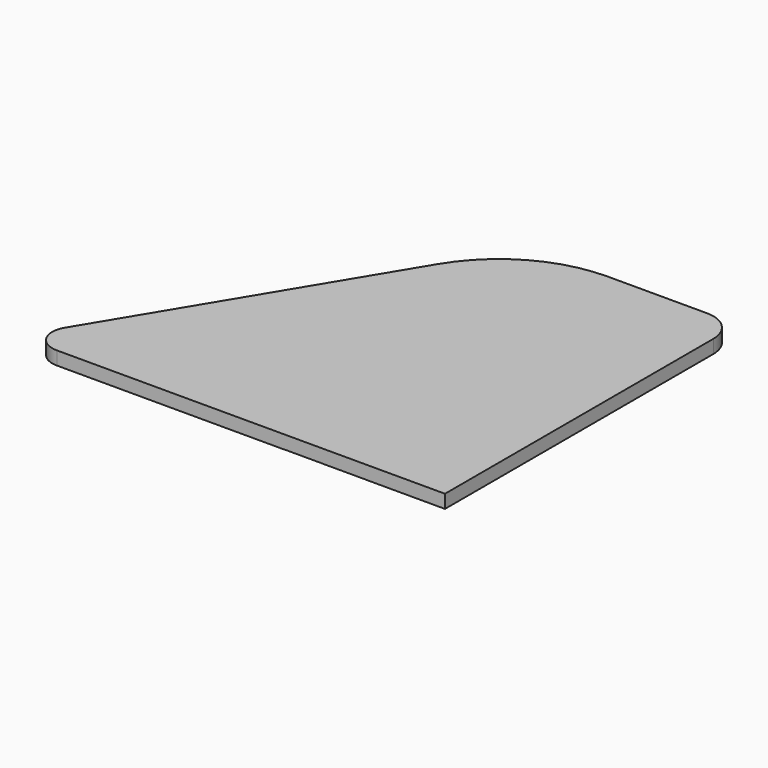
from build123d import *

# Parameters (mm, degrees)
PAD004_DEPTH    = 0.3
SKETCH019_W     = 0.950947
SKETCH019_H     = 8.22
SKETCH019_W_2   = 1.068769
SKETCH019_H_2   = 1.55
POCKET013_DEPTH = 0.001
SKETCH020_W     = 0.897089
SKETCH020_H     = 9.441198
POCKET014_DEPTH = 0.002
SKETCH021_W     = 5.864573
SKETCH021_H     = 0.3
SKETCH021_W_2   = 5.407206
SKETCH021_W_3   = 4.594198
SKETCH021_W_4   = 3.862932
SKETCH021_W_5   = 3.125059
SKETCH021_W_6   = 2.587548
POCKET015_DEPTH = 0.003


with BuildPart() as part:
    # Sketch018 (on Face1 of Binder004) → Pad004 (new body)
    with BuildSketch(Plane(origin=(0, 0, -7.2), x_dir=(1, 0, 0), z_dir=(0, 0, -1))):
        with BuildLine():
            Line((-33.643988, -4.2), (-24.93, -4.2))
            Line((-24.93, -4.2), (-24.93, -11.73))
            ThreePointArc((-25.62, -12.42), (-25.132096, -12.217904), (-24.93, -11.73))
            Line((-25.62, -12.42), (-27.842483, -12.42))
            ThreePointArc((-30.472186, -10.934159), (-29.352703, -12.022851), (-27.842483, -12.42))
            Line((-30.472186, -10.934159), (-34.072278, -4.958006))
            ThreePointArc((-33.643988, -4.2), (-34.079305, -4.454036), (-34.072278, -4.958006))
        make_face()
    extrude(amount=PAD004_DEPTH)

    # Sketch019 (on Face9 of Pad004) → Pocket013 (cut)
    with BuildSketch(Plane(origin=(0, 0, -7.5), x_dir=(1, 0, 0), z_dir=(0, 0, -1))):
        with Locations((-27.178016, -8.31)):
            Rectangle(SKETCH019_W, SKETCH019_H)
        with Locations((-25.906835, -9.322437)):
            Rectangle(SKETCH019_W_2, SKETCH019_H_2)
        with Locations((-25.906835, -11.172437)):
            Rectangle(SKETCH019_W_2, SKETCH019_H_2)
    extrude(amount=-POCKET013_DEPTH, mode=Mode.SUBTRACT)

    # Sketch020 (on Face5 of Pocket013) → Pocket014 (cut)
    with BuildSketch(Plane(origin=(0, 0, -7.5), x_dir=(1, 0, 0), z_dir=(0, 0, -1))):
        with Locations((-28.102034, -8.368765)):
            Rectangle(SKETCH020_W, SKETCH020_H)
    extrude(amount=-POCKET014_DEPTH, mode=Mode.SUBTRACT)

    # Sketch021 (on Face5 of Pocket014) → Pocket015 (cut)
    with BuildSketch(Plane(origin=(0, 0, -7.5), x_dir=(1, 0, 0), z_dir=(0, 0, -1))):
        with Locations((-31.091475, -5.52502)):
            Rectangle(SKETCH021_W, SKETCH021_H)
        with Locations((-30.862792, -6.580682)):
            Rectangle(SKETCH021_W_2, SKETCH021_H)
        with Locations((-30.456288, -7.720259)):
            Rectangle(SKETCH021_W_3, SKETCH021_H)
        with Locations((-30.090655, -8.820285)):
            Rectangle(SKETCH021_W_4, SKETCH021_H)
        with Locations((-29.721718, -10.121832)):
            Rectangle(SKETCH021_W_5, SKETCH021_H)
        with Locations((-29.452963, -11.215608)):
            Rectangle(SKETCH021_W_6, SKETCH021_H)
    extrude(amount=-POCKET015_DEPTH, mode=Mode.SUBTRACT)


solid = part.part
